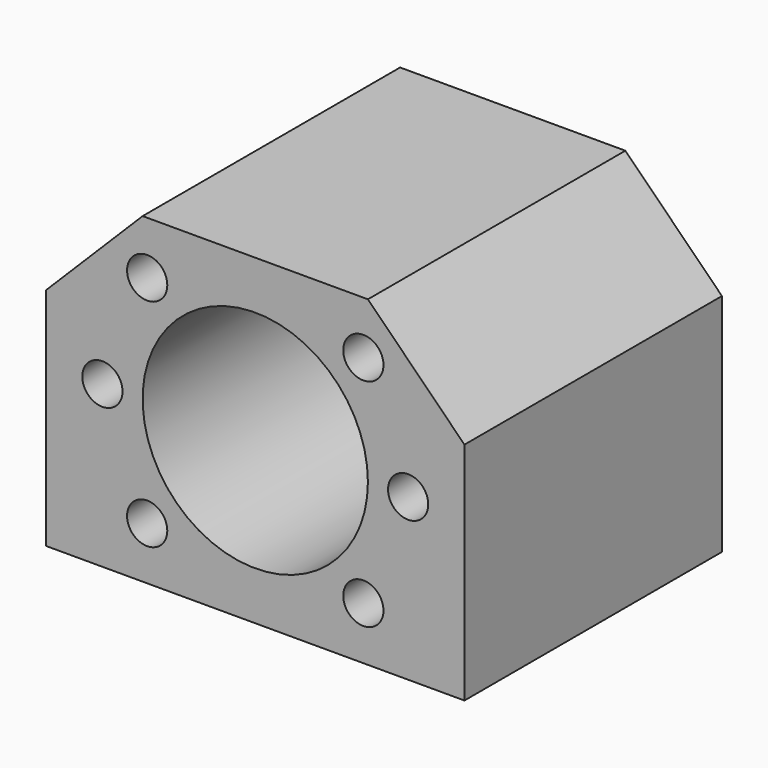
from build123d import *

# Parameters (mm, degrees)
F0_R     = 14
F1_DEPTH = 40
F2_R     = 2.5
F3_DEPTH = 15
F4_R     = 2.5
F5_DEPTH = 15


with BuildPart() as f1:
    # F0 (on Front) → F1 (new body)
    with BuildSketch(Plane.XZ):
        Polygon((0, 28), (0, 0), (52, 0), (52, 28), (40, 40), (12, 40), align=None)
        with Locations((26, 20)):
            Circle(F0_R, mode=Mode.SUBTRACT)
    extrude(amount=F1_DEPTH)

    # F2 (on face) → F3 (cut)
    with BuildSketch(Plane.XZ.offset(40)):
        with Locations((39.435029, 33.435029)):
            Circle(F2_R)
        with Locations((45, 20)):
            Circle(F2_R)
        with Locations((39.435029, 6.564971)):
            Circle(F2_R)
        with Locations((12.564971, 6.564971)):
            Circle(F2_R)
        with Locations((7, 20)):
            Circle(F2_R)
        with Locations((12.564971, 33.435029)):
            Circle(F2_R)
    extrude(amount=-F3_DEPTH, mode=Mode.SUBTRACT)

    # F4 (on face) → F5 (cut)
    with BuildSketch(Plane(origin=(0, 0, 0), x_dir=(1, 0, 0), z_dir=(0, 0, -1))):
        with Locations((46, 32)):
            Circle(F4_R)
        with Locations((46, 8)):
            Circle(F4_R)
        with Locations((6, 8)):
            Circle(F4_R)
        with Locations((6, 32)):
            Circle(F4_R)
    extrude(amount=-F5_DEPTH, mode=Mode.SUBTRACT)


solid = f1.part
